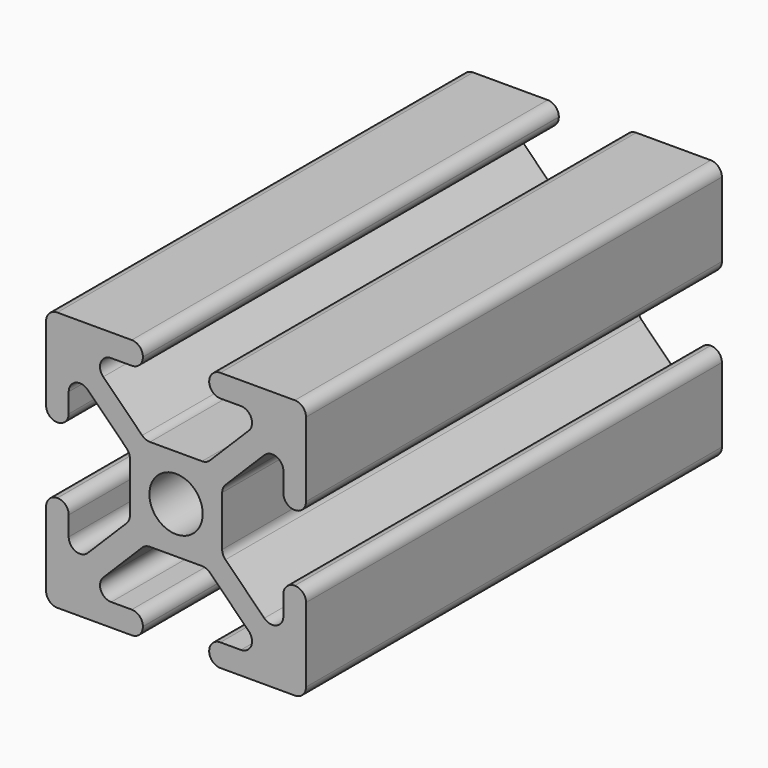
from build123d import *

# Parameters (mm, degrees)
F1_DEPTH = 50.8
F2_R     = 2.6035
F3_DEPTH = 50.801


with BuildPart() as f1:
    # F0 (on Front) → F1 (new body)
    with BuildSketch(Plane.XZ):
        with BuildLine():
            Line((-4.5085, 0), (0, 0))
            Line((0, 0), (0, 4.5085))
            Line((0, 4.5085), (-2.54, 4.5085))
            ThreePointArc((-2.54, 4.5085), (-2.957967, 4.591639), (-3.312302, 4.828398))
            Line((-3.312302, 4.828398), (-7.109602, 8.625698))
            ThreePointArc((-7.109602, 8.625698), (-7.346361, 9.815967), (-6.3373, 10.4902))
            Line((-6.3373, 10.4902), (-4.3307, 10.4902))
            ThreePointArc((-4.3307, 10.4902), (-3.558398, 10.810098), (-3.2385, 11.5824))
            Line((-3.2385, 11.5824), (-3.2385, 11.6078))
            ThreePointArc((-3.2385, 11.6078), (-3.558398, 12.380102), (-4.3307, 12.7))
            Line((-4.3307, 12.7), (-11.6078, 12.7))
            ThreePointArc((-11.6078, 12.7), (-12.380102, 12.380102), (-12.7, 11.6078))
            Line((-12.7, 11.6078), (-12.7, 4.3434))
            ThreePointArc((-12.7, 4.3434), (-12.380102, 3.571098), (-11.6078, 3.2512))
            Line((-11.6078, 3.2512), (-11.5824, 3.2512))
            ThreePointArc((-11.5824, 3.2512), (-10.810098, 3.571098), (-10.4902, 4.3434))
            Line((-10.4902, 4.3434), (-10.4902, 6.244363))
            ThreePointArc((-10.4902, 6.244363), (-9.815967, 7.253424), (-8.625698, 7.016665))
            Line((-8.625698, 7.016665), (-4.828398, 3.219365))
            ThreePointArc((-4.828398, 3.219365), (-4.591639, 2.86503), (-4.5085, 2.447063))
            Line((-4.5085, 2.447063), (-4.5085, 0))
        make_face()
        with BuildLine():
            Line((0, 4.5085), (0, 0))
            Line((0, 0), (4.5085, 0))
            Line((4.5085, 0), (4.5085, 2.447063))
            ThreePointArc((4.5085, 2.447063), (4.591639, 2.86503), (4.828398, 3.219365))
            Line((4.828398, 3.219365), (8.625698, 7.016665))
            ThreePointArc((8.625698, 7.016665), (9.815967, 7.253424), (10.4902, 6.244363))
            Line((10.4902, 6.244363), (10.4902, 4.3434))
            ThreePointArc((10.4902, 4.3434), (10.810098, 3.571098), (11.5824, 3.2512))
            Line((11.5824, 3.2512), (11.6078, 3.2512))
            ThreePointArc((11.6078, 3.2512), (12.380102, 3.571098), (12.7, 4.3434))
            Line((12.7, 4.3434), (12.7, 11.6078))
            ThreePointArc((12.7, 11.6078), (12.380102, 12.380102), (11.6078, 12.7))
            Line((11.6078, 12.7), (4.3307, 12.7))
            ThreePointArc((4.3307, 12.7), (3.558398, 12.380102), (3.2385, 11.6078))
            Line((3.2385, 11.6078), (3.2385, 11.5824))
            ThreePointArc((3.2385, 11.5824), (3.558398, 10.810098), (4.3307, 10.4902))
            Line((4.3307, 10.4902), (6.3373, 10.4902))
            ThreePointArc((6.3373, 10.4902), (7.346361, 9.815967), (7.109602, 8.625698))
            Line((7.109602, 8.625698), (3.312302, 4.828398))
            ThreePointArc((3.312302, 4.828398), (2.957967, 4.591639), (2.54, 4.5085))
            Line((2.54, 4.5085), (0, 4.5085))
        make_face()
        with BuildLine():
            Line((4.5085, 0), (0, 0))
            Line((0, 0), (0, -4.5085))
            Line((0, -4.5085), (2.54, -4.5085))
            ThreePointArc((2.54, -4.5085), (2.957967, -4.591639), (3.312302, -4.828398))
            Line((3.312302, -4.828398), (7.109602, -8.625698))
            ThreePointArc((7.109602, -8.625698), (7.346361, -9.815967), (6.3373, -10.4902))
            Line((6.3373, -10.4902), (4.3307, -10.4902))
            ThreePointArc((4.3307, -10.4902), (3.558398, -10.810098), (3.2385, -11.5824))
            Line((3.2385, -11.5824), (3.2385, -11.6078))
            ThreePointArc((3.2385, -11.6078), (3.558398, -12.380102), (4.3307, -12.7))
            Line((4.3307, -12.7), (11.6078, -12.7))
            ThreePointArc((11.6078, -12.7), (12.380102, -12.380102), (12.7, -11.6078))
            Line((12.7, -11.6078), (12.7, -4.3434))
            ThreePointArc((12.7, -4.3434), (12.380102, -3.571098), (11.6078, -3.2512))
            Line((11.6078, -3.2512), (11.5824, -3.2512))
            ThreePointArc((11.5824, -3.2512), (10.810098, -3.571098), (10.4902, -4.3434))
            Line((10.4902, -4.3434), (10.4902, -6.244363))
            ThreePointArc((10.4902, -6.244363), (9.815967, -7.253424), (8.625698, -7.016665))
            Line((8.625698, -7.016665), (4.828398, -3.219365))
            ThreePointArc((4.828398, -3.219365), (4.591639, -2.86503), (4.5085, -2.447063))
            Line((4.5085, -2.447063), (4.5085, 0))
        make_face()
        with BuildLine():
            Line((0, -4.5085), (0, 0))
            Line((0, 0), (-4.5085, 0))
            Line((-4.5085, 0), (-4.5085, -2.447063))
            ThreePointArc((-4.5085, -2.447063), (-4.591639, -2.86503), (-4.828398, -3.219365))
            Line((-4.828398, -3.219365), (-8.625698, -7.016665))
            ThreePointArc((-8.625698, -7.016665), (-9.815967, -7.253424), (-10.4902, -6.244363))
            Line((-10.4902, -6.244363), (-10.4902, -4.3434))
            ThreePointArc((-10.4902, -4.3434), (-10.810098, -3.571098), (-11.5824, -3.2512))
            Line((-11.5824, -3.2512), (-11.6078, -3.2512))
            ThreePointArc((-11.6078, -3.2512), (-12.380102, -3.571098), (-12.7, -4.3434))
            Line((-12.7, -4.3434), (-12.7, -11.6078))
            ThreePointArc((-12.7, -11.6078), (-12.380102, -12.380102), (-11.6078, -12.7))
            Line((-11.6078, -12.7), (-4.3307, -12.7))
            ThreePointArc((-4.3307, -12.7), (-3.558398, -12.380102), (-3.2385, -11.6078))
            Line((-3.2385, -11.6078), (-3.2385, -11.5824))
            ThreePointArc((-3.2385, -11.5824), (-3.558398, -10.810098), (-4.3307, -10.4902))
            Line((-4.3307, -10.4902), (-6.3373, -10.4902))
            ThreePointArc((-6.3373, -10.4902), (-7.346361, -9.815967), (-7.109602, -8.625698))
            Line((-7.109602, -8.625698), (-3.312302, -4.828398))
            ThreePointArc((-3.312302, -4.828398), (-2.957967, -4.591639), (-2.54, -4.5085))
            Line((-2.54, -4.5085), (0, -4.5085))
        make_face()
    extrude(amount=-F1_DEPTH)

    # F2 (on face) → F3 (cut, through all)
    with BuildSketch(Plane.XZ):
        Circle(F2_R)
    extrude(amount=-F3_DEPTH, mode=Mode.SUBTRACT)


solid = f1.part
